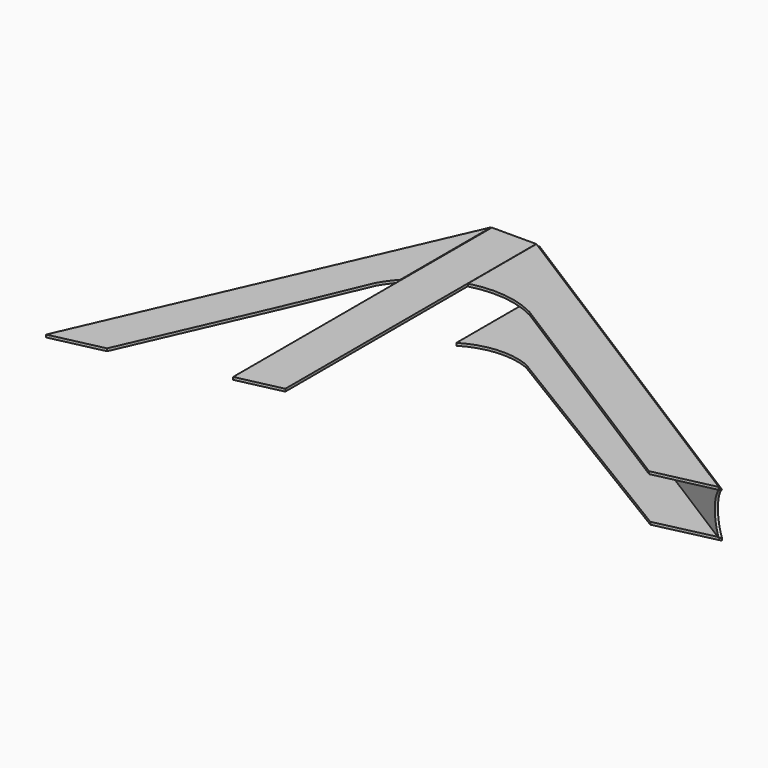
from build123d import *

# Parameters (mm, degrees)
F1_DEPTH = 2.286
F3_DEPTH = 2.286
F5_DEPTH = 2.286


with BuildPart() as f1:
    # F0 (on Top) → F1 (new body)
    with BuildSketch(Plane.XY):
        with BuildLine():
            ThreePointArc((-56.723663, -111.214013), (-57.430666, -112.791182), (-58.117557, -114.377212))
            Line((-58.117557, -114.377212), (-56.723663, -111.214013))
        make_face()
        Polygon((22.474397, 71.839522), (-17.027309, 71.839522), (-17.027309, -216.521665), (22.474397, -207.750656), align=None)
        with BuildLine():
            Line((-17.694519, -22.644171), (-17.694519, 61.457966))
            Line((-17.694519, 61.457966), (-17.694519, 71.839522))
            Line((-17.694519, 71.839522), (-155.780335, -241.522176))
            ThreePointArc((-155.780335, -241.522176), (-148.931893, -241.237791), (-142.886162, -244.467523))
            Line((-142.886162, -244.467523), (-112.466712, -237.71315))
            Line((-112.466712, -237.71315), (-102.683023, -215.510772))
            Line((-102.683023, -215.510772), (-58.117557, -114.377212))
            Line((-58.117557, -114.377212), (-28.096603, -43.832372))
            ThreePointArc((-28.096603, -43.832372), (-23.283061, -36.324813), (-17.694519, -29.374863))
            Line((-17.694519, -29.374863), (-17.694519, -22.644171))
        make_face()
        with BuildLine():
            ThreePointArc((-142.886162, -244.467523), (-148.931893, -241.237791), (-155.780335, -241.522176))
            Line((-155.780335, -241.522176), (-158.617452, -247.960519))
            Line((-158.617452, -247.960519), (-142.886162, -244.467523))
        make_face()
        with BuildLine():
            Line((350.67878, -134.875741), (22.69241, 71.839522))
            Line((22.69241, 71.839522), (22.69241, 61.457966))
            Line((22.69241, 61.457966), (22.69241, -4.534557))
            ThreePointArc((22.69241, -4.534557), (53.391845, -2.167318), (82.854106, -11.113509))
            Line((82.854106, -11.113509), (87.091994, -13.784461))
            ThreePointArc((87.091994, -13.784461), (90.589179, -15.814345), (93.929176, -18.093634))
            Line((93.929176, -18.093634), (297.838295, -146.608509))
            Line((297.838295, -146.608509), (338.818103, -137.5093))
            Line((338.818103, -137.5093), (350.67878, -134.875741))
        make_face()
        with BuildLine():
            ThreePointArc((93.929176, -18.093634), (90.589179, -15.814345), (87.091994, -13.784461))
            Line((87.091994, -13.784461), (93.929176, -18.093634))
        make_face()
    extrude(amount=F1_DEPTH)


with BuildPart() as f3:
    # F2 (on face) → F3 (new body)
    with BuildSketch(Plane(origin=(38.856521, 61.652, 0), x_dir=(-0.845994, 0.533192, 0), z_dir=(0.533192, 0.845994, 0))):
        with BuildLine():
            ThreePointArc((19.106651, -37.973765), (12.470038, -18.986883), (19.106651, 0))
            Line((19.106651, 0), (-368.58686, 0))
            ThreePointArc((-368.58686, 0), (-360.093463, -18.986883), (-368.58686, -37.973765))
            Line((-368.58686, -37.973765), (19.106651, -37.973765))
        make_face()
    extrude(amount=F3_DEPTH)


with BuildPart() as f5:
    # F4 (on face) → F5 (new body)
    with BuildSketch(Plane(origin=(0, 0, -37.973765), x_dir=(1, 0, 0), z_dir=(0, 0, -1))):
        with BuildLine():
            Line((23.911288, 18.932939), (23.911288, -73.773465))
            Line((23.911288, -73.773465), (351.897658, 132.941799))
            Line((351.897658, 132.941799), (297.907526, 145.227078))
            Line((297.907526, 145.227078), (82.036233, 14.05673))
            ThreePointArc((82.036233, 14.05673), (52.399748, 9.652539), (23.911288, 18.932939))
        make_face()
    extrude(amount=F5_DEPTH)


solid = Compound([f1.part, f3.part, f5.part])
